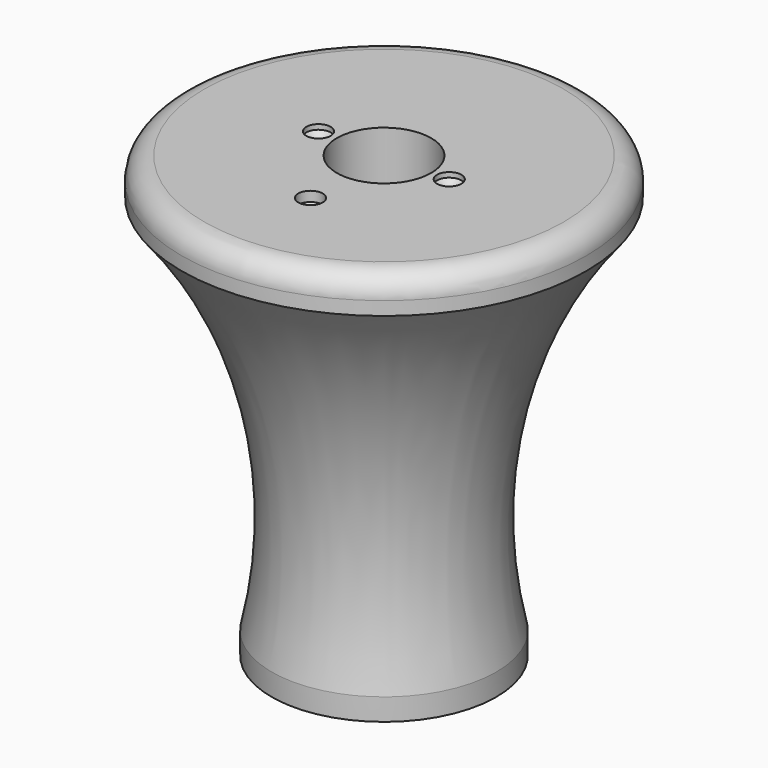
from build123d import *

# Parameters (mm, degrees)
F3_DEPTH  = 4.9
F4_R      = 20
F4_R_2    = 4
F5_DEPTH  = 4.9
F6_DEPTH  = 8
F7_R      = 5
F9_D      = 5.43
F9_DEPTH  = 1.1
F9_TIP    = 1.6313365807
F10_D     = 5.43
F10_DEPTH = 2.2
F10_TIP   = 1.6313365807
F11_R     = 10.5
F12_DEPTH = 100
F14_DEPTH = 5


with BuildPart() as f2:
    # F0 (on Front) → F2 (revolve)
    with BuildSketch(Plane.XZ):
        with BuildLine():
            Line((4, 0), (25, 0))
            ThreePointArc((25, 0), (25.0633115181, 44.8380443487), (45, 85))
            Line((45, 85), (10, 85))
            ThreePointArc((10, 85), (5.5209994492, 72.8549601322), (4, 60))
            Line((4, 60), (4, 0))
        make_face()
    revolve(axis=Axis((0, 0, 25.1682717353), (0, 0, 1)))

    # F3 (add): a face of the model
    f3_faces = [f2.faces().sort_by_distance(p)[0] for p in [
        (-4.7071067812, 0, 0),
    ]]
    extrude(f3_faces, amount=F3_DEPTH)

    # F4 (on face) → F5 (cut)
    with BuildSketch(Plane(origin=(0, 0, -4.9), x_dir=(1, 0, 0), z_dir=(0, 0, -1))):
        Circle(F4_R)
        Circle(F4_R_2, mode=Mode.SUBTRACT)
    extrude(amount=-F5_DEPTH, mode=Mode.SUBTRACT)

    # F6 (add): a face of the model
    f6_faces = [f2.faces().sort_by_distance(p)[0] for p in [
        (-43.7272077939, 0, 85),
    ]]
    extrude(f6_faces, amount=F6_DEPTH)

    # F7
    f7_edges = [f2.edges().sort_by_distance(p)[0] for p in [
        (-45, 0, 93),
    ]]
    fillet(f7_edges, radius=F7_R)

    # F9
    with Locations(Plane.XY.offset(93)):
        with Locations((14.426644952, 0.1037907432), (-14.573297048, 0)):
            Hole(F9_D / 2, depth=F9_DEPTH)
            with Locations((0, 0, -(F9_DEPTH + F9_TIP / 2))):  # 118° drill point
                Cone(0, F9_D / 2, F9_TIP, mode=Mode.SUBTRACT)

    # F10
    with Locations(Plane.XY.offset(93)):
        with Locations((0, -20.4359735063)):
            Hole(F10_D / 2, depth=F10_DEPTH)
            with Locations((0, 0, -(F10_DEPTH + F10_TIP / 2))):  # 118° drill point
                Cone(0, F10_D / 2, F10_TIP, mode=Mode.SUBTRACT)

    # F11 (on Top) → F12 (cut)
    with BuildSketch(Plane.XY):
        Circle(F11_R)
    extrude(amount=F12_DEPTH, mode=Mode.SUBTRACT)

    # F13 (on face) → F14 (join)
    with BuildSketch(Plane(origin=(0, 0, -4.9), x_dir=(1, 0, 0), z_dir=(0, 0, -1))):
        with BuildLine():
            ThreePointArc((2.125, -24.9095237811), (0, -25), (-2.125, -24.9095237811))
            Line((-2.125, -24.9095237811), (-2.125, -26.9095237811))
            Line((-2.125, -26.9095237811), (2.125, -26.9095237811))
            Line((2.125, -26.9095237811), (2.125, -24.9095237811))
        make_face()
    extrude(amount=-F14_DEPTH)


solid = f2.part
